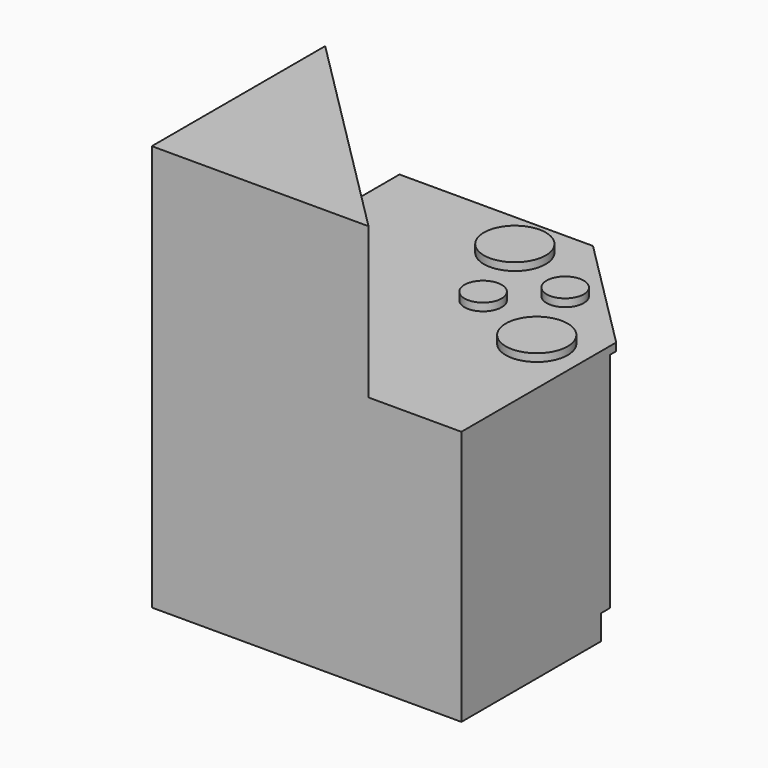
from build123d import *

# Parameters (mm, degrees)
F1_DEPTH  = 800
F3_DEPTH  = 25
F4_W      = 1255.690882
F4_H      = 80
F5_DEPTH  = 25
F6_R      = 60
F6_R_2    = 100
F7_DEPTH  = 25
F9_DEPTH  = 10
F11_DEPTH = 487


with BuildPart() as f1:
    # F0 (on Top) → F1 (new body)
    with BuildSketch(Plane.XY):
        Polygon((-500, 500), (-500, -500), (500, -500), (500, 100), (100, 500), align=None)
    extrude(amount=F1_DEPTH)

    # F2 (on face) → F3 (join)
    with BuildSketch(Plane.XY.offset(800)):
        Polygon((-500, 500), (-500, -500), (500, -500), (500, 125), (125, 500), align=None)
    extrude(amount=F3_DEPTH)

    # F4 (on face) → F5 (cut)
    with BuildSketch(Plane(origin=(300, 300, 0), x_dir=(-0.707107, 0.707107, 0), z_dir=(0.707107, 0.707107, 0))):
        with Locations((133.201046, 40)):
            Rectangle(F4_W, F4_H)
    extrude(amount=-F5_DEPTH, mode=Mode.SUBTRACT)

    # F6 (on face) → F7 (join)
    with BuildSketch(Plane.XY.offset(825)):
        with Locations((241.789322, 241.789322)):
            Circle(F6_R)
        with Locations((94.470174, 94.470174)):
            Circle(F6_R)
        with Locations((347.855339, -5.698052)):
            Circle(F6_R_2)
        with Locations((-5.698052, 347.855339)):
            Circle(F6_R_2)
    extrude(amount=F7_DEPTH)

    # F8 (on face) → F9 (cut)
    with BuildSketch(Plane(origin=(300, 300, 0), x_dir=(-0.707107, 0.707107, 0), z_dir=(0.707107, 0.707107, 0))):
        with BuildLine():
            ThreePointArc((-182.842712, 310), (-174.055916, 288.786797), (-152.842712, 280))
            Line((-152.842712, 280), (152.842712, 280))
            ThreePointArc((152.842712, 280), (174.055916, 288.786797), (182.842712, 310))
            Line((182.842712, 310), (182.842712, 600))
            ThreePointArc((182.842712, 600), (174.055916, 621.213203), (152.842712, 630))
            Line((152.842712, 630), (-152.842712, 630))
            ThreePointArc((-152.842712, 630), (-174.055916, 621.213203), (-182.842712, 600))
            Line((-182.842712, 600), (-182.842712, 310))
        make_face()
    extrude(amount=-F9_DEPTH, mode=Mode.SUBTRACT)

    # F10 (on face) → F11 (join)
    with BuildSketch(Plane.XY.offset(825)):
        Polygon((-500, 200), (-500, -500), (200, -500), align=None)
    extrude(amount=F11_DEPTH)


solid = f1.part
